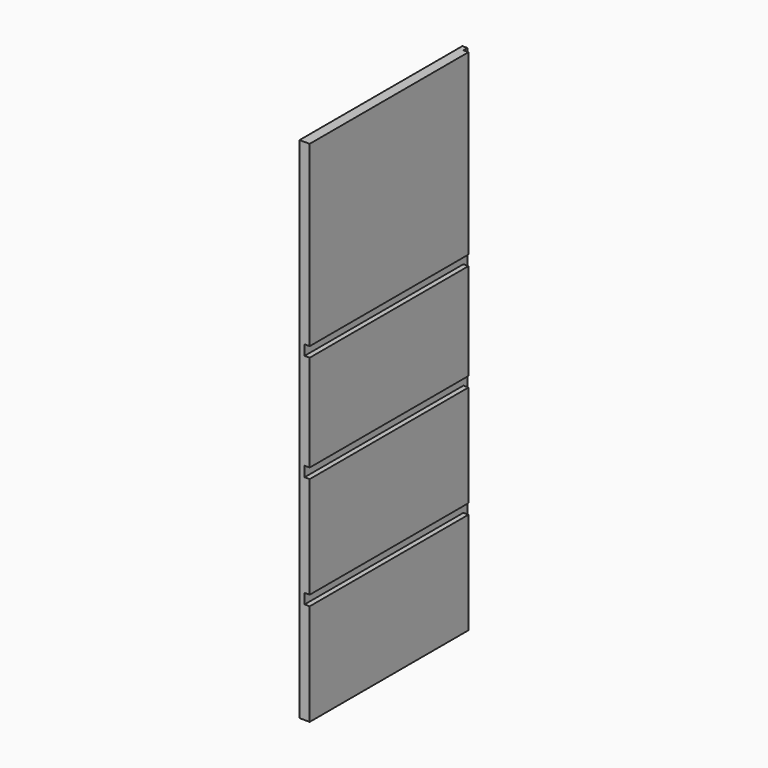
from build123d import *

# Parameters (mm, degrees)
F0_W     = 10
F0_H     = 350
F0_H_2   = 20
F0_H_3   = 190
F0_H_4   = 200
F0_W_2   = 390
F1_DEPTH = 10
F2_DEPTH = 20


with BuildPart() as f1:
    # F0 (on Right) → F1 (new body)
    with BuildSketch(Plane.YZ):
        with Locations((190.124774985, 511.8865245837)):
            Rectangle(F0_W, F0_H)
        with Locations((190.124774985, 326.8865245837)):
            Rectangle(F0_W, F0_H_2)
        with Locations((190.124774985, 221.8865245837)):
            Rectangle(F0_W, F0_H_3)
        with Locations((190.124774985, 116.8865245837)):
            Rectangle(F0_W, F0_H_2)
        with Locations((190.124774985, 6.8865245837)):
            Rectangle(F0_W, F0_H_4)
        with Locations((190.124774985, -103.1134754163)):
            Rectangle(F0_W, F0_H_2)
        with Locations((190.124774985, -213.1134754163)):
            Rectangle(F0_W, F0_H_4)
        with Locations((-9.875225015, -103.1134754163)):
            Rectangle(F0_W_2, F0_H_2)
        with Locations((-9.875225015, 116.8865245837)):
            Rectangle(F0_W_2, F0_H_2)
        with Locations((-9.875225015, 326.8865245837)):
            Rectangle(F0_W_2, F0_H_2)
    extrude(amount=F1_DEPTH)

    # F0 (on Right) → F2 (join)
    with BuildSketch(Plane.YZ):
        with Locations((-9.875225015, 511.8865245837)):
            Rectangle(F0_W_2, F0_H)
        with Locations((-9.875225015, 221.8865245837)):
            Rectangle(F0_W_2, F0_H_3)
        with Locations((-9.875225015, 6.8865245837)):
            Rectangle(F0_W_2, F0_H_4)
        with Locations((-9.875225015, -213.1134754163)):
            Rectangle(F0_W_2, F0_H_4)
    extrude(amount=F2_DEPTH)


solid = f1.part
